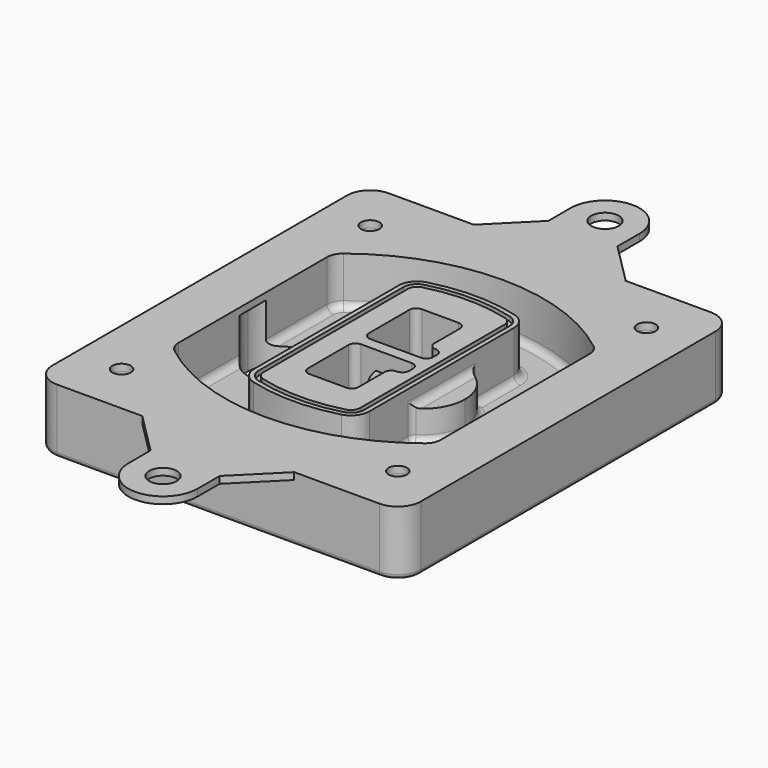
from build123d import *

# Parameters (mm, degrees)
F0_R      = 4
F1_DEPTH  = 25
F2_DEPTH  = 3
F3_DEPTH  = 18
F5_DEPTH  = 21
F6_DEPTH  = 2
F8_DEPTH  = 20
F9_DEPTH  = 16
F10_DEPTH = 25
F7_R      = 6
F7_R_2    = 4
F11_DEPTH = 6
F13_DEPTH = 9
F14_R     = 3
F15_R     = 2
F16_R     = 6
F16_R_2   = 4
F17_DEPTH = 3


with BuildPart() as f1:
    # F0 (on Top) → F1 (new body)
    with BuildSketch(Plane.XY):
        with BuildLine():
            ThreePointArc((14.05, 38.3825811321), (16.9789321881, 31.3115133202), (24.05, 28.3825811321))
            Line((24.05, 28.3825811321), (164.05, 28.3825811321))
            ThreePointArc((164.05, 28.3825811321), (171.1210678119, 31.3115133202), (174.05, 38.3825811321))
            Line((174.05, 38.3825811321), (174.05, 198.3825811321))
            ThreePointArc((174.05, 198.3825811321), (171.1210678119, 205.4536489439), (164.05, 208.3825811321))
            Line((164.05, 208.3825811321), (24.05, 208.3825811321))
            ThreePointArc((24.05, 208.3825811321), (16.9789321881, 205.4536489439), (14.05, 198.3825811321))
            Line((14.05, 198.3825811321), (14.05, 38.3825811321))
        make_face()
        with Locations((34.05, 50.8825811321)):
            Circle(F0_R, mode=Mode.SUBTRACT)
        with Locations((154.05, 50.8825811321)):
            Circle(F0_R, mode=Mode.SUBTRACT)
        with BuildLine():
            ThreePointArc((30.05, 158.6760234193), (31.4679615202, 164.8154295545), (35.4346153846, 169.7112011673))
            ThreePointArc((35.4346153846, 169.7112011673), (94.05, 189.8825811321), (152.6653846154, 169.7112011673))
            ThreePointArc((152.6653846154, 169.7112011673), (156.6320384798, 164.8154295545), (158.05, 158.6760234193))
            Line((158.05, 158.6760234193), (158.05, 78.0891388448))
            ThreePointArc((158.05, 78.0891388448), (156.6320384798, 71.9497327097), (152.6653846154, 67.0539610969))
            ThreePointArc((152.6653846154, 67.0539610969), (94.05, 46.8825811321), (35.4346153846, 67.0539610969))
            ThreePointArc((35.4346153846, 67.0539610969), (31.4679615202, 71.9497327097), (30.05, 78.0891388448))
            Line((30.05, 78.0891388448), (30.05, 158.6760234193))
        make_face(mode=Mode.SUBTRACT)
        with Locations((34.05, 185.8825811321)):
            Circle(F0_R, mode=Mode.SUBTRACT)
        with Locations((154.05, 185.8825811321)):
            Circle(F0_R, mode=Mode.SUBTRACT)
        with BuildLine():
            ThreePointArc((152.6653846154, 169.7112011673), (94.05, 189.8825811321), (35.4346153846, 169.7112011673))
            ThreePointArc((35.4346153846, 169.7112011673), (31.4679615202, 164.8154295545), (30.05, 158.6760234193))
            Line((30.05, 158.6760234193), (30.05, 78.0891388448))
            ThreePointArc((30.05, 78.0891388448), (31.4679615202, 71.9497327097), (35.4346153846, 67.0539610969))
            ThreePointArc((35.4346153846, 67.0539610969), (94.05, 46.8825811321), (152.6653846154, 67.0539610969))
            ThreePointArc((152.6653846154, 67.0539610969), (156.6320384798, 71.9497327097), (158.05, 78.0891388448))
            Line((158.05, 78.0891388448), (158.05, 158.6760234193))
            ThreePointArc((158.05, 158.6760234193), (156.6320384798, 164.8154295545), (152.6653846154, 169.7112011673))
        make_face()
        with BuildLine():
            Line((34.05, 78.0891388448), (34.05, 158.6760234193))
            ThreePointArc((34.05, 158.6760234193), (35.0628296573, 163.0613135158), (37.8961538462, 166.5582932393))
            ThreePointArc((37.8961538462, 166.5582932393), (94.05, 185.8825811321), (150.2038461538, 166.5582932393))
            ThreePointArc((150.2038461538, 166.5582932393), (153.0371703427, 163.0613135158), (154.05, 158.6760234193))
            Line((154.05, 158.6760234193), (154.05, 78.0891388448))
            ThreePointArc((154.05, 78.0891388448), (153.0371703427, 73.7038487483), (150.2038461538, 70.2068690248))
            ThreePointArc((150.2038461538, 70.2068690248), (94.05, 50.8825811321), (37.8961538462, 70.2068690248))
            ThreePointArc((37.8961538462, 70.2068690248), (35.0628296573, 73.7038487483), (34.05, 78.0891388448))
        make_face(mode=Mode.SUBTRACT)
        with BuildLine():
            ThreePointArc((37.8961538462, 166.5582932393), (35.0628296573, 163.0613135158), (34.05, 158.6760234193))
            Line((34.05, 158.6760234193), (34.05, 78.0891388448))
            ThreePointArc((34.05, 78.0891388448), (35.0628296573, 73.7038487483), (37.8961538462, 70.2068690248))
            ThreePointArc((37.8961538462, 70.2068690248), (94.05, 50.8825811321), (150.2038461538, 70.2068690248))
            ThreePointArc((150.2038461538, 70.2068690248), (153.0371703427, 73.7038487483), (154.05, 78.0891388448))
            Line((154.05, 78.0891388448), (154.05, 158.6760234193))
            ThreePointArc((154.05, 158.6760234193), (153.0371703427, 163.0613135158), (150.2038461538, 166.5582932393))
            ThreePointArc((150.2038461538, 166.5582932393), (94.05, 185.8825811321), (37.8961538462, 166.5582932393))
        make_face()
        with BuildLine():
            ThreePointArc((148.3576923077, 164.1936122933), (150.3410192399, 161.7457264869), (151.05, 158.6760234193))
            Line((151.05, 158.6760234193), (151.05, 78.0891388448))
            ThreePointArc((151.05, 78.0891388448), (150.3410192399, 75.0194357772), (148.3576923077, 72.5715499708))
            ThreePointArc((148.3576923077, 72.5715499708), (94.05, 53.8825811321), (39.7423076923, 72.5715499708))
            ThreePointArc((39.7423076923, 72.5715499708), (37.7589807601, 75.0194357772), (37.05, 78.0891388448))
            Line((37.05, 78.0891388448), (37.05, 158.6760234193))
            ThreePointArc((37.05, 158.6760234193), (37.7589807601, 161.7457264869), (39.7423076923, 164.1936122933))
            ThreePointArc((39.7423076923, 164.1936122933), (94.05, 182.8825811321), (148.3576923077, 164.1936122933))
        make_face(mode=Mode.SUBTRACT)
        with BuildLine():
            Line((151.05, 78.0891388448), (151.05, 158.6760234193))
            ThreePointArc((151.05, 158.6760234193), (150.3410192399, 161.7457264869), (148.3576923077, 164.1936122933))
            ThreePointArc((148.3576923077, 164.1936122933), (94.05, 182.8825811321), (39.7423076923, 164.1936122933))
            ThreePointArc((39.7423076923, 164.1936122933), (37.7589807601, 161.7457264869), (37.05, 158.6760234193))
            Line((37.05, 158.6760234193), (37.05, 78.0891388448))
            ThreePointArc((37.05, 78.0891388448), (37.7589807601, 75.0194357772), (39.7423076923, 72.5715499708))
            ThreePointArc((39.7423076923, 72.5715499708), (94.05, 53.8825811321), (148.3576923077, 72.5715499708))
            ThreePointArc((148.3576923077, 72.5715499708), (150.3410192399, 75.0194357772), (151.05, 78.0891388448))
        make_face()
    extrude(amount=-F1_DEPTH)

    # F0 (on Top) → F2 (join)
    with BuildSketch(Plane.XY):
        with BuildLine():
            ThreePointArc((37.8961538462, 166.5582932393), (35.0628296573, 163.0613135158), (34.05, 158.6760234193))
            Line((34.05, 158.6760234193), (34.05, 78.0891388448))
            ThreePointArc((34.05, 78.0891388448), (35.0628296573, 73.7038487483), (37.8961538462, 70.2068690248))
            ThreePointArc((37.8961538462, 70.2068690248), (94.05, 50.8825811321), (150.2038461538, 70.2068690248))
            ThreePointArc((150.2038461538, 70.2068690248), (153.0371703427, 73.7038487483), (154.05, 78.0891388448))
            Line((154.05, 78.0891388448), (154.05, 158.6760234193))
            ThreePointArc((154.05, 158.6760234193), (153.0371703427, 163.0613135158), (150.2038461538, 166.5582932393))
            ThreePointArc((150.2038461538, 166.5582932393), (94.05, 185.8825811321), (37.8961538462, 166.5582932393))
        make_face()
        with BuildLine():
            ThreePointArc((148.3576923077, 164.1936122933), (150.3410192399, 161.7457264869), (151.05, 158.6760234193))
            Line((151.05, 158.6760234193), (151.05, 78.0891388448))
            ThreePointArc((151.05, 78.0891388448), (150.3410192399, 75.0194357772), (148.3576923077, 72.5715499708))
            ThreePointArc((148.3576923077, 72.5715499708), (94.05, 53.8825811321), (39.7423076923, 72.5715499708))
            ThreePointArc((39.7423076923, 72.5715499708), (37.7589807601, 75.0194357772), (37.05, 78.0891388448))
            Line((37.05, 78.0891388448), (37.05, 158.6760234193))
            ThreePointArc((37.05, 158.6760234193), (37.7589807601, 161.7457264869), (39.7423076923, 164.1936122933))
            ThreePointArc((39.7423076923, 164.1936122933), (94.05, 182.8825811321), (148.3576923077, 164.1936122933))
        make_face(mode=Mode.SUBTRACT)
    extrude(amount=F2_DEPTH)

    # F0 (on Top) → F3 (cut)
    with BuildSketch(Plane.XY):
        with BuildLine():
            Line((151.05, 78.0891388448), (151.05, 158.6760234193))
            ThreePointArc((151.05, 158.6760234193), (150.3410192399, 161.7457264869), (148.3576923077, 164.1936122933))
            ThreePointArc((148.3576923077, 164.1936122933), (94.05, 182.8825811321), (39.7423076923, 164.1936122933))
            ThreePointArc((39.7423076923, 164.1936122933), (37.7589807601, 161.7457264869), (37.05, 158.6760234193))
            Line((37.05, 158.6760234193), (37.05, 78.0891388448))
            ThreePointArc((37.05, 78.0891388448), (37.7589807601, 75.0194357772), (39.7423076923, 72.5715499708))
            ThreePointArc((39.7423076923, 72.5715499708), (94.05, 53.8825811321), (148.3576923077, 72.5715499708))
            ThreePointArc((148.3576923077, 72.5715499708), (150.3410192399, 75.0194357772), (151.05, 78.0891388448))
        make_face()
    extrude(amount=-F3_DEPTH, mode=Mode.SUBTRACT)

    # F4 (on face) → F5 (join, through all)
    with BuildSketch(Plane.XY.offset(3)):
        with BuildLine():
            ThreePointArc((69.05, 79.13605345), (70.6988454002, 74.2716074128), (74.9657088123, 71.4123412437))
            ThreePointArc((74.9657088123, 71.4123412437), (94.05, 68.8825811321), (113.1342911877, 71.4123412437))
            ThreePointArc((113.1342911877, 71.4123412437), (117.4011545998, 74.2716074128), (119.05, 79.13605345))
            Line((119.05, 79.13605345), (119.05, 157.6291088141))
            ThreePointArc((119.05, 157.6291088141), (117.4011545998, 162.4935548514), (113.1342911877, 165.3528210204))
            ThreePointArc((113.1342911877, 165.3528210204), (94.05, 167.8825811321), (74.9657088123, 165.3528210204))
            ThreePointArc((74.9657088123, 165.3528210204), (70.6988454002, 162.4935548514), (69.05, 157.6291088141))
            Line((69.05, 157.6291088141), (69.05, 79.13605345))
        make_face()
        with BuildLine():
            ThreePointArc((112.6132183908, 163.4218929688), (115.8133659499, 161.2774433421), (117.05, 157.6291088141))
            Line((117.05, 157.6291088141), (117.05, 79.13605345))
            ThreePointArc((117.05, 79.13605345), (115.8133659499, 75.4877189221), (112.6132183908, 73.3432692953))
            ThreePointArc((112.6132183908, 73.3432692953), (94.05, 70.8825811321), (75.4867816092, 73.3432692953))
            ThreePointArc((75.4867816092, 73.3432692953), (72.2866340501, 75.4877189221), (71.05, 79.13605345))
            Line((71.05, 79.13605345), (71.05, 157.6291088141))
            ThreePointArc((71.05, 157.6291088141), (72.2866340501, 161.2774433421), (75.4867816092, 163.4218929688))
            ThreePointArc((75.4867816092, 163.4218929688), (94.05, 165.8825811321), (112.6132183908, 163.4218929688))
        make_face(mode=Mode.SUBTRACT)
        with BuildLine():
            Line((117.05, 79.13605345), (117.05, 157.6291088141))
            ThreePointArc((117.05, 157.6291088141), (115.8133659499, 161.2774433421), (112.6132183908, 163.4218929688))
            ThreePointArc((112.6132183908, 163.4218929688), (94.05, 165.8825811321), (75.4867816092, 163.4218929688))
            ThreePointArc((75.4867816092, 163.4218929688), (72.2866340501, 161.2774433421), (71.05, 157.6291088141))
            Line((71.05, 157.6291088141), (71.05, 79.13605345))
            ThreePointArc((71.05, 79.13605345), (72.2866340501, 75.4877189221), (75.4867816092, 73.3432692953))
            ThreePointArc((75.4867816092, 73.3432692953), (94.05, 70.8825811321), (112.6132183908, 73.3432692953))
            ThreePointArc((112.6132183908, 73.3432692953), (115.8133659499, 75.4877189221), (117.05, 79.13605345))
        make_face()
        with BuildLine():
            ThreePointArc((112.0921455939, 161.4909649173), (114.2255772999, 160.0613318328), (115.05, 157.6291088141))
            Line((115.05, 157.6291088141), (115.05, 79.13605345))
            ThreePointArc((115.05, 79.13605345), (114.2255772999, 76.7038304314), (112.0921455939, 75.2741973469))
            ThreePointArc((112.0921455939, 75.2741973469), (94.05, 72.8825811321), (76.0078544061, 75.2741973469))
            ThreePointArc((76.0078544061, 75.2741973469), (73.8744227001, 76.7038304314), (73.05, 79.13605345))
            Line((73.05, 79.13605345), (73.05, 157.6291088141))
            ThreePointArc((73.05, 157.6291088141), (73.8744227001, 160.0613318328), (76.0078544061, 161.4909649173))
            ThreePointArc((76.0078544061, 161.4909649173), (94.05, 163.8825811321), (112.0921455939, 161.4909649173))
        make_face(mode=Mode.SUBTRACT)
        with BuildLine():
            Line((115.05, 79.13605345), (115.05, 157.6291088141))
            ThreePointArc((115.05, 157.6291088141), (114.2255772999, 160.0613318328), (112.0921455939, 161.4909649173))
            ThreePointArc((112.0921455939, 161.4909649173), (94.05, 163.8825811321), (76.0078544061, 161.4909649173))
            ThreePointArc((76.0078544061, 161.4909649173), (73.8744227001, 160.0613318328), (73.05, 157.6291088141))
            Line((73.05, 157.6291088141), (73.05, 79.13605345))
            ThreePointArc((73.05, 79.13605345), (73.8744227001, 76.7038304314), (76.0078544061, 75.2741973469))
            ThreePointArc((76.0078544061, 75.2741973469), (94.05, 72.8825811321), (112.0921455939, 75.2741973469))
            ThreePointArc((112.0921455939, 75.2741973469), (114.2255772999, 76.7038304314), (115.05, 79.13605345))
        make_face()
        with BuildLine():
            Line((86.05, 115.8825811321), (108.05, 115.8825811321))
            ThreePointArc((108.05, 115.8825811321), (110.1713203436, 115.0039014756), (111.05, 112.8825811321))
            Line((111.05, 112.8825811321), (111.05, 110.8825811321))
            ThreePointArc((111.05, 110.8825811321), (110.1713203436, 108.7612607885), (108.05, 107.8825811321))
            ThreePointArc((108.05, 107.8825811321), (105.9286796564, 107.0039014756), (105.05, 104.8825811321))
            Line((105.05, 104.8825811321), (105.05, 90.8825811321))
            ThreePointArc((105.05, 90.8825811321), (104.1713203436, 88.7612607885), (102.05, 87.8825811321))
            Line((102.05, 87.8825811321), (86.05, 87.8825811321))
            ThreePointArc((86.05, 87.8825811321), (83.9286796564, 88.7612607885), (83.05, 90.8825811321))
            Line((83.05, 90.8825811321), (83.05, 112.8825811321))
            ThreePointArc((83.05, 112.8825811321), (83.9286796564, 115.0039014756), (86.05, 115.8825811321))
        make_face(mode=Mode.SUBTRACT)
        with BuildLine():
            ThreePointArc((86.05, 120.8825811321), (83.9286796564, 121.7612607885), (83.05, 123.8825811321))
            Line((83.05, 123.8825811321), (83.05, 145.8825811321))
            ThreePointArc((83.05, 145.8825811321), (83.9286796564, 148.0039014756), (86.05, 148.8825811321))
            Line((86.05, 148.8825811321), (102.05, 148.8825811321))
            ThreePointArc((102.05, 148.8825811321), (104.1713203436, 148.0039014756), (105.05, 145.8825811321))
            Line((105.05, 145.8825811321), (105.05, 131.8825811321))
            ThreePointArc((105.05, 131.8825811321), (105.9286796564, 129.7612607885), (108.05, 128.8825811321))
            ThreePointArc((108.05, 128.8825811321), (110.1713203436, 128.0039014756), (111.05, 125.8825811321))
            Line((111.05, 125.8825811321), (111.05, 123.8825811321))
            ThreePointArc((111.05, 123.8825811321), (110.1713203436, 121.7612607885), (108.05, 120.8825811321))
            Line((108.05, 120.8825811321), (86.05, 120.8825811321))
        make_face(mode=Mode.SUBTRACT)
    extrude(amount=-F5_DEPTH)

    # F4 (on face) → F6 (cut)
    with BuildSketch(Plane.XY.offset(3)):
        with BuildLine():
            Line((117.05, 79.13605345), (117.05, 157.6291088141))
            ThreePointArc((117.05, 157.6291088141), (115.8133659499, 161.2774433421), (112.6132183908, 163.4218929688))
            ThreePointArc((112.6132183908, 163.4218929688), (94.05, 165.8825811321), (75.4867816092, 163.4218929688))
            ThreePointArc((75.4867816092, 163.4218929688), (72.2866340501, 161.2774433421), (71.05, 157.6291088141))
            Line((71.05, 157.6291088141), (71.05, 79.13605345))
            ThreePointArc((71.05, 79.13605345), (72.2866340501, 75.4877189221), (75.4867816092, 73.3432692953))
            ThreePointArc((75.4867816092, 73.3432692953), (94.05, 70.8825811321), (112.6132183908, 73.3432692953))
            ThreePointArc((112.6132183908, 73.3432692953), (115.8133659499, 75.4877189221), (117.05, 79.13605345))
        make_face()
        with BuildLine():
            ThreePointArc((112.0921455939, 161.4909649173), (114.2255772999, 160.0613318328), (115.05, 157.6291088141))
            Line((115.05, 157.6291088141), (115.05, 79.13605345))
            ThreePointArc((115.05, 79.13605345), (114.2255772999, 76.7038304314), (112.0921455939, 75.2741973469))
            ThreePointArc((112.0921455939, 75.2741973469), (94.05, 72.8825811321), (76.0078544061, 75.2741973469))
            ThreePointArc((76.0078544061, 75.2741973469), (73.8744227001, 76.7038304314), (73.05, 79.13605345))
            Line((73.05, 79.13605345), (73.05, 157.6291088141))
            ThreePointArc((73.05, 157.6291088141), (73.8744227001, 160.0613318328), (76.0078544061, 161.4909649173))
            ThreePointArc((76.0078544061, 161.4909649173), (94.05, 163.8825811321), (112.0921455939, 161.4909649173))
        make_face(mode=Mode.SUBTRACT)
    extrude(amount=-F6_DEPTH, mode=Mode.SUBTRACT)

    # F7 (on face) → F8 (join)
    with BuildSketch(Plane(origin=(0, 0, -25), x_dir=(1, 0, 0), z_dir=(0, 0, -1))):
        with BuildLine():
            ThreePointArc((97.33842436, -118.3825811321), (110.8067035675, -104.9143019245), (124.274982775, -118.3825811321))
            Line((124.274982775, -118.3825811321), (129.274982775, -118.3825811321))
            ThreePointArc((129.274982775, -118.3825811321), (110.8067035675, -99.9143019245), (92.33842436, -118.3825811321))
            Line((92.33842436, -118.3825811321), (97.33842436, -118.3825811321))
        make_face()
        with BuildLine():
            Line((97.33842436, -118.3825811321), (124.274982775, -118.3825811321))
            ThreePointArc((124.274982775, -118.3825811321), (110.8067035675, -104.9143019245), (97.33842436, -118.3825811321))
        make_face()
        with BuildLine():
            ThreePointArc((97.33842436, -118.3825811321), (110.8067035675, -131.8508603396), (124.274982775, -118.3825811321))
            Line((124.274982775, -118.3825811321), (97.33842436, -118.3825811321))
        make_face()
        with BuildLine():
            Line((129.274982775, -118.3825811321), (124.274982775, -118.3825811321))
            ThreePointArc((124.274982775, -118.3825811321), (110.8067035675, -131.8508603396), (97.33842436, -118.3825811321))
            Line((97.33842436, -118.3825811321), (92.33842436, -118.3825811321))
            ThreePointArc((92.33842436, -118.3825811321), (110.8067035675, -136.8508603396), (129.274982775, -118.3825811321))
        make_face()
    extrude(amount=-F8_DEPTH)

    # F7 (on face) → F9 (cut)
    with BuildSketch(Plane(origin=(0, 0, -25), x_dir=(1, 0, 0), z_dir=(0, 0, -1))):
        with BuildLine():
            Line((97.33842436, -118.3825811321), (124.274982775, -118.3825811321))
            ThreePointArc((124.274982775, -118.3825811321), (110.8067035675, -104.9143019245), (97.33842436, -118.3825811321))
        make_face()
        with BuildLine():
            ThreePointArc((97.33842436, -118.3825811321), (110.8067035675, -131.8508603396), (124.274982775, -118.3825811321))
            Line((124.274982775, -118.3825811321), (97.33842436, -118.3825811321))
        make_face()
    extrude(amount=-F9_DEPTH, mode=Mode.SUBTRACT)

    # F7 (on face) → F10 (cut)
    with BuildSketch(Plane(origin=(0, 0, -25), x_dir=(1, 0, 0), z_dir=(0, 0, -1))):
        with BuildLine():
            Line((35.0181770675, -118.3825811321), (61.9547354825, -118.3825811321))
            ThreePointArc((61.9547354825, -118.3825811321), (48.486456275, -104.9143019245), (35.0181770675, -118.3825811321))
        make_face()
        with BuildLine():
            ThreePointArc((35.0181770675, -118.3825811321), (48.486456275, -131.8508603396), (61.9547354825, -118.3825811321))
            Line((61.9547354825, -118.3825811321), (35.0181770675, -118.3825811321))
        make_face()
    extrude(amount=-F10_DEPTH, mode=Mode.SUBTRACT)

    # F7 (on face) → F11 (cut)
    with BuildSketch(Plane(origin=(0, 0, -25), x_dir=(1, 0, 0), z_dir=(0, 0, -1))):
        with Locations((154.05, -185.8825811321)):
            Circle(F7_R)
        with Locations((154.05, -185.8825811321)):
            Circle(F7_R_2, mode=Mode.SUBTRACT)
        with Locations((154.05, -185.8825811321)):
            Circle(F7_R)
        with Locations((154.05, -185.8825811321)):
            Circle(F7_R_2, mode=Mode.SUBTRACT)
        with Locations((34.05, -185.8825811321)):
            Circle(F7_R)
        with Locations((34.05, -185.8825811321)):
            Circle(F7_R_2, mode=Mode.SUBTRACT)
        with Locations((34.05, -185.8825811321)):
            Circle(F7_R)
        with Locations((34.05, -185.8825811321)):
            Circle(F7_R_2, mode=Mode.SUBTRACT)
        with Locations((34.05, -50.8825811321)):
            Circle(F7_R)
        with Locations((34.05, -50.8825811321)):
            Circle(F7_R_2, mode=Mode.SUBTRACT)
        with Locations((34.05, -50.8825811321)):
            Circle(F7_R)
        with Locations((34.05, -50.8825811321)):
            Circle(F7_R_2, mode=Mode.SUBTRACT)
        with Locations((154.05, -50.8825811321)):
            Circle(F7_R)
        with Locations((154.05, -50.8825811321)):
            Circle(F7_R_2, mode=Mode.SUBTRACT)
        with Locations((154.05, -50.8825811321)):
            Circle(F7_R)
        with Locations((154.05, -50.8825811321)):
            Circle(F7_R_2, mode=Mode.SUBTRACT)
    extrude(amount=-F11_DEPTH, mode=Mode.SUBTRACT)

    # F12 (on face) → F13 (cut, through all)
    with BuildSketch(Plane(origin=(0, 0, -9), x_dir=(1, 0, 0), z_dir=(0, 0, -1))):
        with BuildLine():
            Line((105.05, -104.8825811321), (105.05, -100.8344273567))
            ThreePointArc((105.05, -100.8344273567), (96.6196536419, -106.5586667507), (92.5084157545, -115.8825811321))
            Line((92.5084157545, -115.8825811321), (97.5724848595, -115.8825811321))
            ThreePointArc((97.5724848595, -115.8825811321), (100.2357188154, -110.0369939039), (105.3036447004, -106.0898642673))
            ThreePointArc((105.3036447004, -106.0898642673), (105.1140958889, -105.4994012441), (105.05, -104.8825811321))
        make_face()
        with BuildLine():
            ThreePointArc((105.3036447004, -130.6752979968), (100.2357188154, -126.7281683602), (97.5724848595, -120.8825811321))
            Line((97.5724848595, -120.8825811321), (92.5084157545, -120.8825811321))
            ThreePointArc((92.5084157545, -120.8825811321), (96.6196536419, -130.2064955134), (105.05, -135.9307349074))
            Line((105.05, -135.9307349074), (105.05, -131.8825811321))
            ThreePointArc((105.05, -131.8825811321), (105.1140958889, -131.26576102), (105.3036447004, -130.6752979968))
        make_face()
        with BuildLine():
            ThreePointArc((105.3036447004, -106.0898642673), (100.2357188154, -110.0369939039), (97.5724848595, -115.8825811321))
            Line((97.5724848595, -115.8825811321), (108.05, -115.8825811321))
            ThreePointArc((108.05, -115.8825811321), (110.1713203436, -115.0039014756), (111.05, -112.8825811321))
            Line((111.05, -112.8825811321), (111.05, -110.8825811321))
            ThreePointArc((111.05, -110.8825811321), (110.1713203436, -108.7612607885), (108.05, -107.8825811321))
            ThreePointArc((108.05, -107.8825811321), (106.4101599782, -107.3947365219), (105.3036447004, -106.0898642673))
        make_face()
        with BuildLine():
            Line((108.05, -120.8825811321), (97.5724848595, -120.8825811321))
            ThreePointArc((97.5724848595, -120.8825811321), (100.2357188154, -126.7281683602), (105.3036447004, -130.6752979968))
            ThreePointArc((105.3036447004, -130.6752979968), (106.4101599782, -129.3704257422), (108.05, -128.8825811321))
            ThreePointArc((108.05, -128.8825811321), (110.1713203436, -128.0039014756), (111.05, -125.8825811321))
            Line((111.05, -125.8825811321), (111.05, -123.8825811321))
            ThreePointArc((111.05, -123.8825811321), (110.1713203436, -121.7612607885), (108.05, -120.8825811321))
        make_face()
    extrude(amount=F13_DEPTH, mode=Mode.SUBTRACT)

    # F14
    f14_edges = [f1.edges().sort_by_distance(p)[0] for p in [
        (37.05, 94.679105, -18),
        (37.05, 142.086057, -18),
        (119.05, 118.382581, -5),
        (119.05, 134.909087, -11.5),
        (119.05, 101.856075, -11.5),
        (119.05, 90.496064, -18),
        (129.274983, 118.382581, -18),
    ]]
    fillet(f14_edges, radius=F14_R)

    # F15
    f15_edges = [f1.edges().sort_by_distance(p)[0] for p in [
        (94.05, 28.382581, -25),
    ]]
    fillet(f15_edges, radius=F15_R)

    # F16 (on face) → F17 (join, through all)
    with BuildSketch(Plane.XY):
        with BuildLine():
            Line((109.05, 226.3825811321), (109.05, 238.3825811321))
            ThreePointArc((109.05, 238.3825811321), (94.05, 253.3825811321), (79.05, 238.3825811321))
            Line((79.05, 238.3825811321), (79.05, 226.3825811321))
            Line((79.05, 226.3825811321), (61.05, 208.3825811321))
            Line((61.05, 208.3825811321), (127.05, 208.3825811321))
            Line((127.05, 208.3825811321), (109.05, 226.3825811321))
        make_face()
        with Locations((94.05, 238.3825811321)):
            Circle(F16_R, mode=Mode.SUBTRACT)
        with BuildLine():
            Line((109.05, 10.3825811321), (127.05, 28.3825811321))
            Line((127.05, 28.3825811321), (61.05, 28.3825811321))
            Line((61.05, 28.3825811321), (79.05, 10.3825811321))
            Line((79.05, 10.3825811321), (79.05, -1.6174188679))
            ThreePointArc((79.05, -1.6174188679), (94.05, -16.6174188679), (109.05, -1.6174188679))
            Line((109.05, -1.6174188679), (109.05, 10.3825811321))
        make_face()
        with Locations((94.05, -1.6174188679)):
            Circle(F16_R, mode=Mode.SUBTRACT)
        with BuildLine():
            Line((164.05, 208.3825811321), (127.05, 208.3825811321))
            Line((127.05, 208.3825811321), (61.05, 208.3825811321))
            Line((61.05, 208.3825811321), (24.05, 208.3825811321))
            ThreePointArc((24.05, 208.3825811321), (16.9789321881, 205.4536489439), (14.05, 198.3825811321))
            Line((14.05, 198.3825811321), (14.05, 38.3825811321))
            ThreePointArc((14.05, 38.3825811321), (16.9789321881, 31.3115133202), (24.05, 28.3825811321))
            Line((24.05, 28.3825811321), (61.05, 28.3825811321))
            Line((61.05, 28.3825811321), (127.05, 28.3825811321))
            Line((127.05, 28.3825811321), (164.05, 28.3825811321))
            ThreePointArc((164.05, 28.3825811321), (171.1210678119, 31.3115133202), (174.05, 38.3825811321))
            Line((174.05, 38.3825811321), (174.05, 198.3825811321))
            ThreePointArc((174.05, 198.3825811321), (171.1210678119, 205.4536489439), (164.05, 208.3825811321))
        make_face()
        with Locations((34.05, 50.8825811321)):
            Circle(F16_R_2, mode=Mode.SUBTRACT)
        with BuildLine():
            ThreePointArc((34.05, 158.6760234193), (35.0628296573, 163.0613135158), (37.8961538462, 166.5582932393))
            ThreePointArc((37.8961538462, 166.5582932393), (94.05, 185.8825811321), (150.2038461538, 166.5582932393))
            ThreePointArc((150.2038461538, 166.5582932393), (153.0371703427, 163.0613135158), (154.05, 158.6760234193))
            Line((154.05, 158.6760234193), (154.05, 78.0891388448))
            ThreePointArc((154.05, 78.0891388448), (153.0371703427, 73.7038487483), (150.2038461538, 70.2068690248))
            ThreePointArc((150.2038461538, 70.2068690248), (94.05, 50.8825811321), (37.8961538462, 70.2068690248))
            ThreePointArc((37.8961538462, 70.2068690248), (35.0628296573, 73.7038487483), (34.05, 78.0891388448))
            Line((34.05, 78.0891388448), (34.05, 158.6760234193))
        make_face(mode=Mode.SUBTRACT)
        with Locations((154.05, 50.8825811321)):
            Circle(F16_R_2, mode=Mode.SUBTRACT)
        with Locations((34.05, 185.8825811321)):
            Circle(F16_R_2, mode=Mode.SUBTRACT)
        with Locations((154.05, 185.8825811321)):
            Circle(F16_R_2, mode=Mode.SUBTRACT)
    extrude(amount=F17_DEPTH)


solid = f1.part
